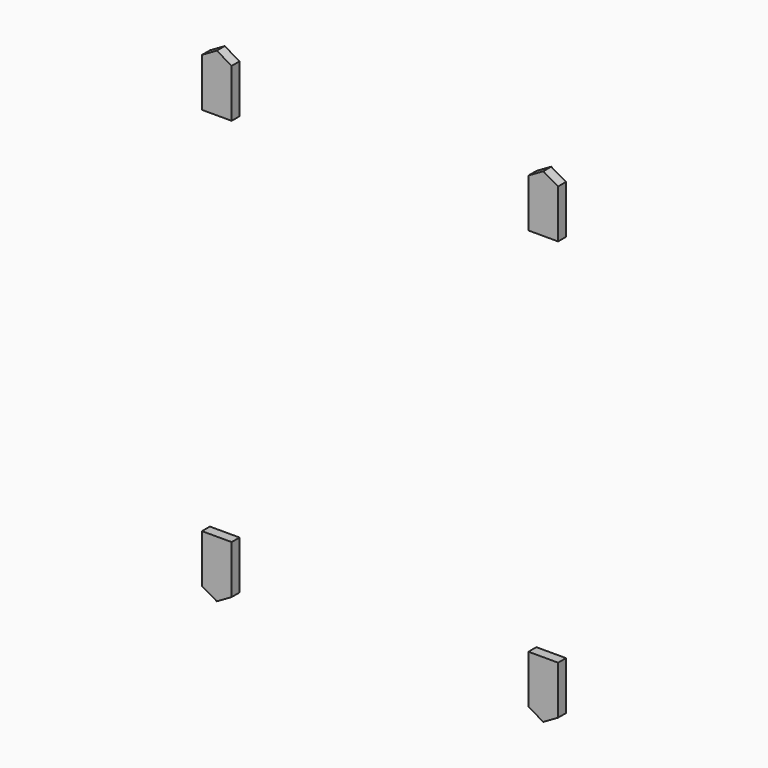
from build123d import *

# Parameters (mm, degrees)
EXTRUDE008_DEPTH = 2
EXTRUDE009_DEPTH = 2


with BuildPart() as m3nutcut:
    # Sketch010 → Extrude008 (new body)
    with BuildSketch(Plane.XZ):
        Polygon((3, -10.767949), (6, -12.5), (9, -10.767949), (9, -0.98215), (3, -0.98215), align=None)
    extrude(amount=EXTRUDE008_DEPTH)


with BuildPart() as m3nutcut_1:
    # Extrude008 placement: moved
    add(m3nutcut.part.moved(Location((0, -19.75, 0))))


with BuildPart() as fusion045:
    # Sketch011 → Extrude009 (new body)
    with BuildSketch(Plane.XZ):
        Polygon((3, -10.767949), (6, -12.5), (9, -10.767949), (9, -0.98215), (3, -0.98215), align=None)
    extrude(amount=EXTRUDE009_DEPTH)


with BuildPart() as fusion045_1:
    # Extrude009 placement: moved
    add(fusion045.part.moved(Location((66, -19.75, 0))))

    # Fusion045: union m3NutCut
    add(m3nutcut_1.part)


with BuildPart() as m3nutcuts001:
    # Part__Mirroring009: instance of Fusion045
    add(fusion045_1.part.mirror(Plane(origin=(0, 0, 0), x_dir=(0, 1, 0), z_dir=(0, 0, 1))))


with BuildPart() as m3nutcuts001_1:
    # Part__Mirroring009 placement: moved
    add(m3nutcuts001.part.moved(Location((0, 0, 73))))

    # Fusion046: union Fusion045
    add(fusion045_1.part)


solid = m3nutcuts001_1.part
